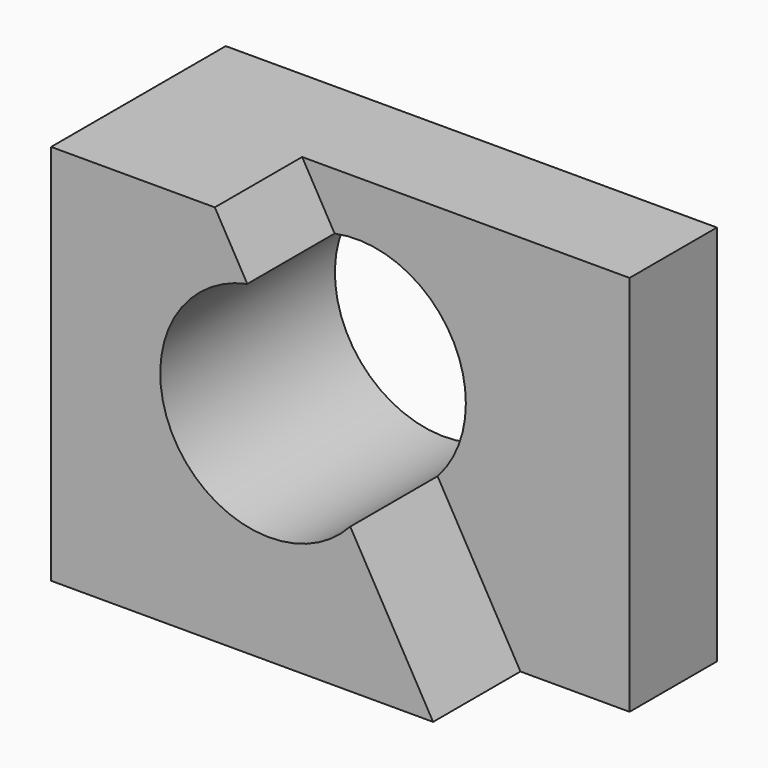
from build123d import *

# Parameters (mm, degrees)
F0_W     = 57.15
F0_H     = 44.45
F1_DEPTH = 25.4
F3_DEPTH = 25.4
F4_DEPTH = 12.7


with BuildPart() as f1:
    # F0 (on Front) → F1 (new body)
    with BuildSketch(Plane.XZ):
        with Locations((10.3530548513, 6.0124166765)):
            Rectangle(F0_W, F0_H)
    extrude(amount=F1_DEPTH)

    # F2 (on face) → F3 (cut)
    with BuildSketch(Plane.XZ.offset(25.4)):
        with BuildLine():
            Line((16.5876644945, 0.6580998009), (4.6069067466, 21.6244258597))
            ThreePointArc((4.6069067466, 21.6244258597), (-3.8486330537, 2.8864521594), (16.5876644945, 0.6580998009))
        make_face()
        with BuildLine():
            ThreePointArc((19.8780548513, 9.1874166765), (15.1979182875, 19.034842252), (4.6069067466, 21.6244258597))
            Line((4.6069067466, 21.6244258597), (16.5876644945, 0.6580998009))
            ThreePointArc((16.5876644945, 0.6580998009), (19.0269375511, 4.616423484), (19.8780548513, 9.1874166765))
        make_face()
    extrude(amount=-F3_DEPTH, mode=Mode.SUBTRACT)

    # F2 (on face) → F4 (cut)
    with BuildSketch(Plane.XZ.offset(25.4)):
        with BuildLine():
            Line((38.9280548513, 28.2374166765), (0.8280548513, 28.2374166765))
            Line((0.8280548513, 28.2374166765), (4.6069067466, 21.6244258597))
            ThreePointArc((4.6069067466, 21.6244258597), (15.1979182875, 19.034842252), (19.8780548513, 9.1874166765))
            ThreePointArc((19.8780548513, 9.1874166765), (19.0269375511, 4.616423484), (16.5876644945, 0.6580998009))
            Line((16.5876644945, 0.6580998009), (26.2280548513, -16.2125833235))
            Line((26.2280548513, -16.2125833235), (38.9280548513, -16.2125833235))
            Line((38.9280548513, -16.2125833235), (38.9280548513, 28.2374166765))
        make_face()
        with BuildLine():
            ThreePointArc((19.8780548513, 9.1874166765), (15.1979182875, 19.034842252), (4.6069067466, 21.6244258597))
            Line((4.6069067466, 21.6244258597), (16.5876644945, 0.6580998009))
            ThreePointArc((16.5876644945, 0.6580998009), (19.0269375511, 4.616423484), (19.8780548513, 9.1874166765))
        make_face()
        with BuildLine():
            Line((16.5876644945, 0.6580998009), (4.6069067466, 21.6244258597))
            ThreePointArc((4.6069067466, 21.6244258597), (-3.8486330537, 2.8864521594), (16.5876644945, 0.6580998009))
        make_face()
    extrude(amount=-F4_DEPTH, mode=Mode.SUBTRACT)


solid = f1.part
